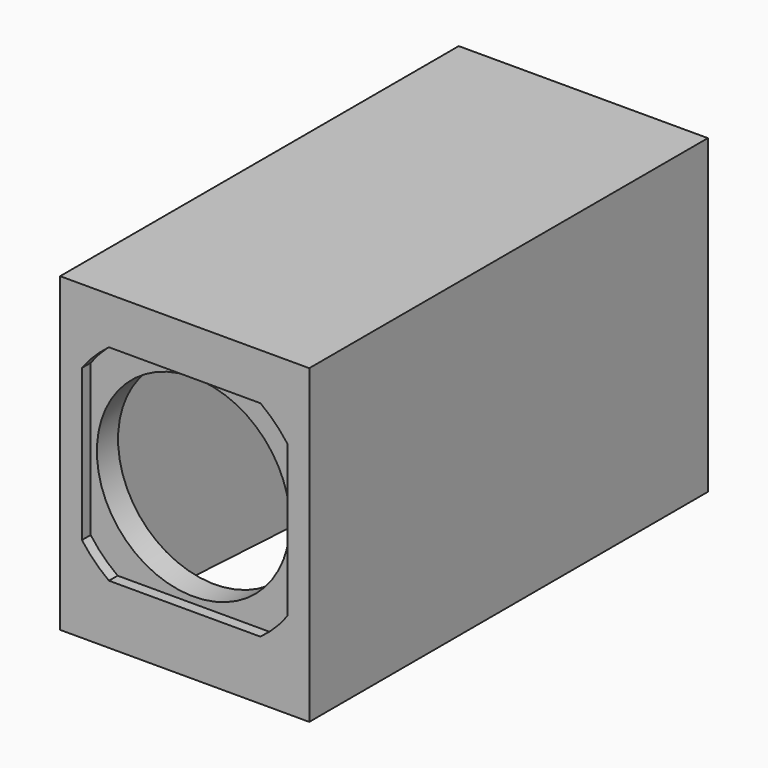
from build123d import *

# Parameters (mm, degrees)
F0_W     = 80
F0_H     = 160
F1_DEPTH = 100
F3_DEPTH = 94
F5_DEPTH = 3.5
F6_R     = 31
F7_DEPTH = 25
F8_ANGLE = 180


with BuildPart() as f1:
    # F0 (on Top) → F1 (new body)
    with BuildSketch(Plane.XY):
        with Locations((0, 15)):
            Rectangle(F0_W, F0_H)
    extrude(amount=F1_DEPTH)

    # F2 (on face) → F3 (cut)
    with BuildSketch(Plane(origin=(0, 0, 0), x_dir=(1, 0, 0), z_dir=(0, 0, -1))):
        Polygon((-25, -89), (25, -89), (34, 53), (-34, 53), align=None)
    extrude(amount=-F3_DEPTH, mode=Mode.SUBTRACT)

    # F4 (on face) → F5 (cut)
    with BuildSketch(Plane.XZ.offset(65)):
        with BuildLine():
            Line((24.33105, 85), (-24.33105, 85))
            ThreePointArc((-24.33105, 85), (-28.991378, 80.991378), (-33, 76.33105))
            Line((-33, 76.33105), (-33, 27.66895))
            ThreePointArc((-33, 27.66895), (-28.991378, 23.008622), (-24.33105, 19))
            Line((-24.33105, 19), (24.33105, 19))
            ThreePointArc((24.33105, 19), (28.991378, 23.008622), (33, 27.66895))
            Line((33, 27.66895), (33, 76.33105))
            ThreePointArc((33, 76.33105), (28.991378, 80.991378), (24.33105, 85))
        make_face()
    extrude(amount=-F5_DEPTH, mode=Mode.SUBTRACT)

    # F6 (on face) → F7 (cut)
    with BuildSketch(Plane.XZ.offset(61.5)):
        with Locations((0, 52)):
            Circle(F6_R)
    extrude(amount=-F7_DEPTH, mode=Mode.SUBTRACT)


with BuildPart() as f8_1:
    # F8: copy of F1
    add(f1.part.rotate(Axis((40, 15, 0), (0, -1, 0)), F8_ANGLE))


solid = f1.part
